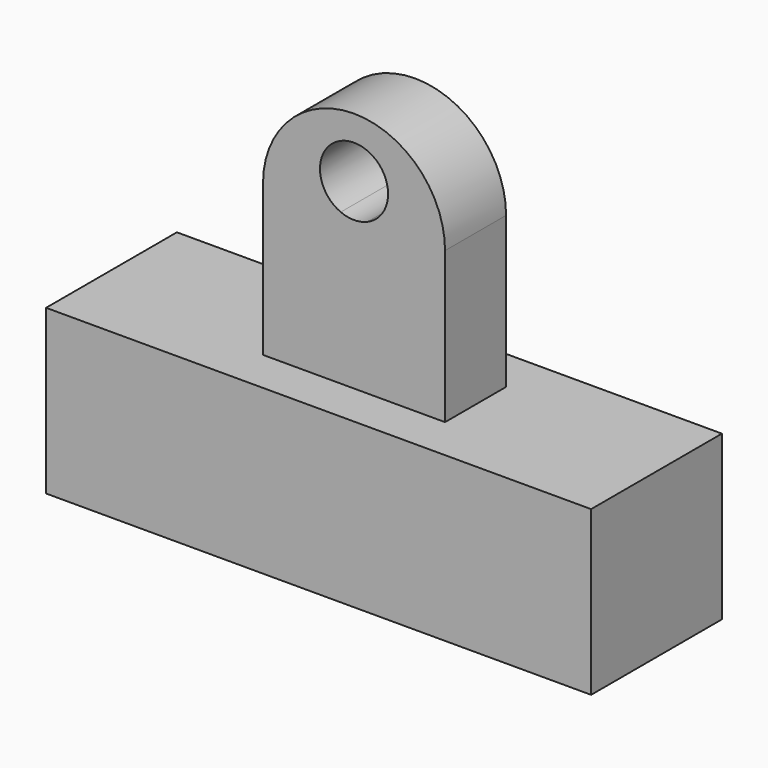
from build123d import *

# Parameters (mm, degrees)
F1_DEPTH = 19.05
F2_DEPTH = 8.89


with BuildPart() as f1:
    # F0 (on Front) → F1 (new body, symmetric)
    with BuildSketch(Plane.XZ):
        Polygon((42.418, 0), (0, 0), (0, -38.1), (127, -38.1), (127, 0), (84.836, 0), align=None)
    extrude(amount=F1_DEPTH, both=True)

    # F0 (on Front) → F2 (join, symmetric)
    with BuildSketch(Plane.XZ):
        Polygon((42.418, 0), (0, 0), (0, -38.1), (127, -38.1), (127, 0), (84.836, 0), align=None)
        with BuildLine():
            Line((42.418, 35.189945), (42.418, 0))
            Line((42.418, 0), (84.836, 0))
            Line((84.836, 0), (84.836, 35.189945))
            Line((84.836, 35.189945), (66.718048, 35.189945))
            ThreePointArc((66.718048, 35.189945), (63.627, 34.56335), (60.535952, 35.189945))
            Line((60.535952, 35.189945), (42.418, 35.189945))
        make_face()
        with BuildLine():
            ThreePointArc((84.836, 35.189945), (63.627, 56.398945), (42.418, 35.189945))
            Line((42.418, 35.189945), (60.535952, 35.189945))
            ThreePointArc((60.535952, 35.189945), (59.241301, 49.116706), (71.5645, 42.50085))
            ThreePointArc((71.5645, 42.50085), (70.242856, 38.115151), (66.718048, 35.189945))
            Line((66.718048, 35.189945), (84.836, 35.189945))
        make_face()
    extrude(amount=F2_DEPTH, both=True)


solid = f1.part
